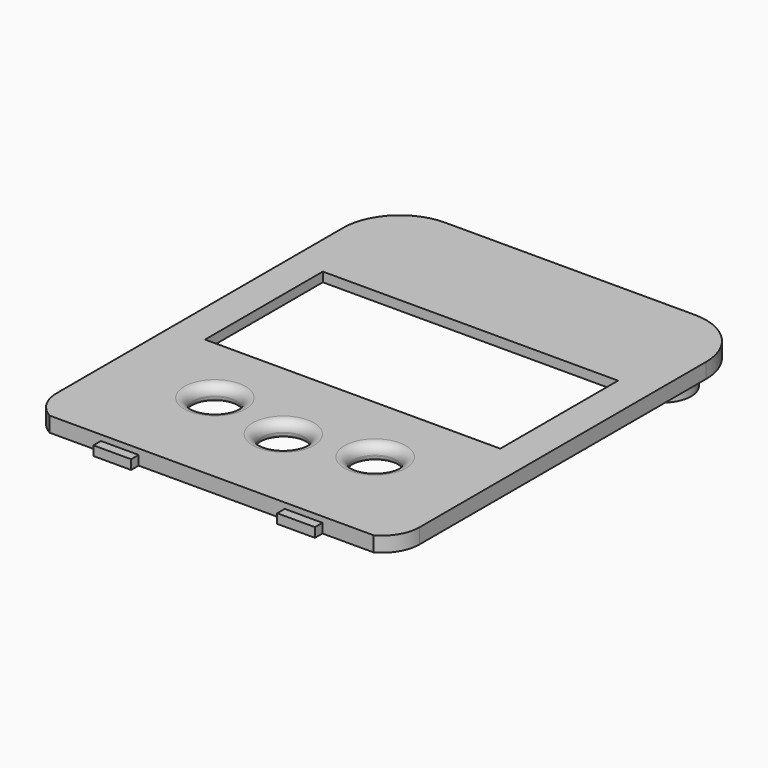
from build123d import *

# Parameters (mm, degrees)
PAD015_DEPTH    = 1.6
SKETCH025_W     = 4
SKETCH025_H     = 1
PAD016_DEPTH    = 1
SKETCH026_W     = 31.32
SKETCH026_H     = 15.62
POCKET006_DEPTH = 1.6
SKETCH027_R     = 2.25
POCKET007_DEPTH = 1.6
FILLET002_R     = 1
FILLET003_R     = 0.5
SKETCH028_W     = 34.5
SKETCH028_H     = 23
POCKET008_DEPTH = 0.6
SKETCH029_R     = 2.95
SKETCH029_R_2   = 0.9
PAD017_DEPTH    = 3.15


with BuildPart() as part:
    # Sketch024 (on Face1 of CopyPad014) → Pad015 (new body)
    with BuildSketch(Plane.XY.offset(8.35)):
        with BuildLine():
            Line((1.014303, 5.007822), (1.014303, 43.007822))
            ThreePointArc((7.014272, 49.007822), (2.771651, 47.250452), (1.014303, 43.007822))
            Line((33.514272, 49.007822), (7.014272, 49.007822))
            ThreePointArc((39.514303, 43.007822), (37.756933, 47.250473), (33.514272, 49.007822))
            Line((39.514303, 5.007822), (39.514303, 43.007822))
            ThreePointArc((37.450803, 1.507822), (38.960026, 2.976317), (39.514303, 5.007822))
            Line((3.077803, 1.507822), (37.450803, 1.507822))
            ThreePointArc((1.014303, 5.007822), (1.56858, 2.976317), (3.077803, 1.507822))
        make_face()
    extrude(amount=PAD015_DEPTH)

    # Sketch025 (on Face7 of Pad015) → Pad016 (join)
    with BuildSketch(Plane.XZ.offset(-1.507822)):
        with Locations((10.513803, 8.85)):
            Rectangle(SKETCH025_W, SKETCH025_H)
        with Locations((30.014803, 8.85)):
            Rectangle(SKETCH025_W, SKETCH025_H)
    extrude(amount=PAD016_DEPTH)

    # Sketch026 (on Face5 of Pad016) → Pocket006 (cut)
    with BuildSketch(Plane.XY.offset(9.95)):
        with Locations((20.264303, 28.007822)):
            Rectangle(SKETCH026_W, SKETCH026_H)
    extrude(amount=-POCKET006_DEPTH, mode=Mode.SUBTRACT)

    # Sketch027 (on Face5 of Pocket006) → Pocket007 (cut)
    with BuildSketch(Plane.XY.offset(9.95)):
        with Locations((11.764303, 12.557822)):
            Circle(SKETCH027_R)
        with Locations((20.264303, 11.007822)):
            Circle(SKETCH027_R)
        with Locations((28.764303, 12.557822)):
            Circle(SKETCH027_R)
    extrude(amount=-POCKET007_DEPTH, mode=Mode.SUBTRACT)

    # Fillet002
    fillet002_edges = [part.edges().sort_by_distance(p)[0] for p in [
        (9.514303, 12.557822, 9.95),
        (18.014303, 11.007822, 9.95),
        (26.514303, 12.557822, 9.95),
    ]]
    fillet(fillet002_edges, radius=FILLET002_R)

    # Fillet003
    fillet003_edges = [part.edges().sort_by_distance(p)[0] for p in [
        (9.514303, 12.557822, 8.35),
        (18.014303, 11.007822, 8.35),
        (26.514303, 12.557822, 8.35),
    ]]
    fillet(fillet003_edges, radius=FILLET003_R)

    # Sketch028 (on Face4 of Fillet003) → Pocket008 (cut)
    with BuildSketch(Plane(origin=(0, 0, 8.35), x_dir=(1, 0, 0), z_dir=(0, 0, -1))):
        with Locations((20.264303, -30.057822)):
            Rectangle(SKETCH028_W, SKETCH028_H)
    extrude(amount=-POCKET008_DEPTH, mode=Mode.SUBTRACT)

    # Sketch029 (on Face4 of Pocket008) → Pad017 (join)
    with BuildSketch(Plane(origin=(0, 0, 8.35), x_dir=(1, 0, 0), z_dir=(0, 0, -1))):
        with Locations((6.764303, -44.507822)):
            Circle(SKETCH029_R)
        with Locations((6.764303, -44.507822)):
            Circle(SKETCH029_R_2, mode=Mode.SUBTRACT)
        with Locations((33.764303, -44.507822)):
            Circle(SKETCH029_R)
        with Locations((33.764303, -44.507822)):
            Circle(SKETCH029_R_2, mode=Mode.SUBTRACT)
    extrude(amount=PAD017_DEPTH)


solid = part.part
